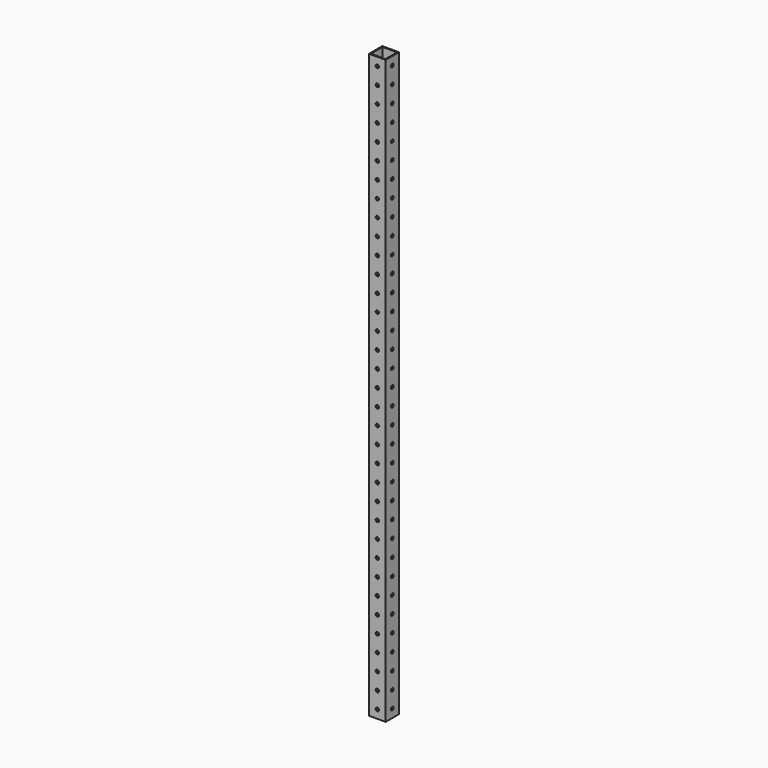
from build123d import *

# Parameters (mm, degrees)
F0_W     = 25.4
F0_H     = 25.4
F1_DEPTH = 889
F2_W     = 22.225
F2_H     = 22.225
F3_DEPTH = 889
F5_D     = 5.1054
F7_D     = 5.1054


with BuildPart() as f1:
    # F0 (on Top) → F1 (new body)
    with BuildSketch(Plane.XY):
        Rectangle(F0_W, F0_H)
    extrude(amount=F1_DEPTH)

    # F2 (on face) → F3 (cut)
    with BuildSketch(Plane.XY.offset(889)):
        Rectangle(F2_W, F2_H)
    extrude(amount=-F3_DEPTH, mode=Mode.SUBTRACT)

    # F5 (through all)
    with Locations(Plane(origin=(0, 12.7, 0), x_dir=(-1, 0, 0), z_dir=(0, 1, 0))):
        with Locations((0, 876.3), (0, 850.9), (0, 825.5), (0, 800.1), (0, 774.7), (0, 749.3), (0, 723.9), (0, 698.5), (0, 673.1), (0, 647.7), (0, 622.3), (0, 596.9), (0, 571.5), (0, 546.1), (0, 520.7), (0, 469.9), (0, 444.5), (0, 419.1), (0, 495.3), (0, 393.7), (0, 368.3), (0, 342.9), (0, 317.5), (0, 292.1), (0, 266.7), (0, 241.3), (0, 215.9), (0, 190.5), (0, 165.1), (0, 139.7), (0, 114.3), (0, 88.9), (0, 63.5), (0, 38.1), (0, 12.7)):
            Hole(F5_D / 2)

    # F7 (through all)
    with Locations(Plane.YZ.offset(12.7)):
        with Locations((0, 38.1), (0, 444.5), (0, 546.1), (0, 139.7), (0, 215.9), (0, 495.3), (0, 88.9), (0, 571.5), (0, 368.3), (0, 622.3), (0, 774.7), (0, 723.9), (0, 266.7), (0, 876.3), (0, 165.1), (0, 317.5), (0, 850.9), (0, 393.7), (0, 825.5), (25.4, 876.3), (0, 673.1), (0, 12.7), (0, 469.9), (0, 63.5), (0, 520.7), (0, 114.3), (0, 647.7), (0, 800.1), (0, 698.5), (0, 596.9), (0, 342.9), (0, 190.5), (0, 241.3), (0, 292.1), (0, 419.1), (0, 749.3)):
            Hole(F7_D / 2)


solid = f1.part
